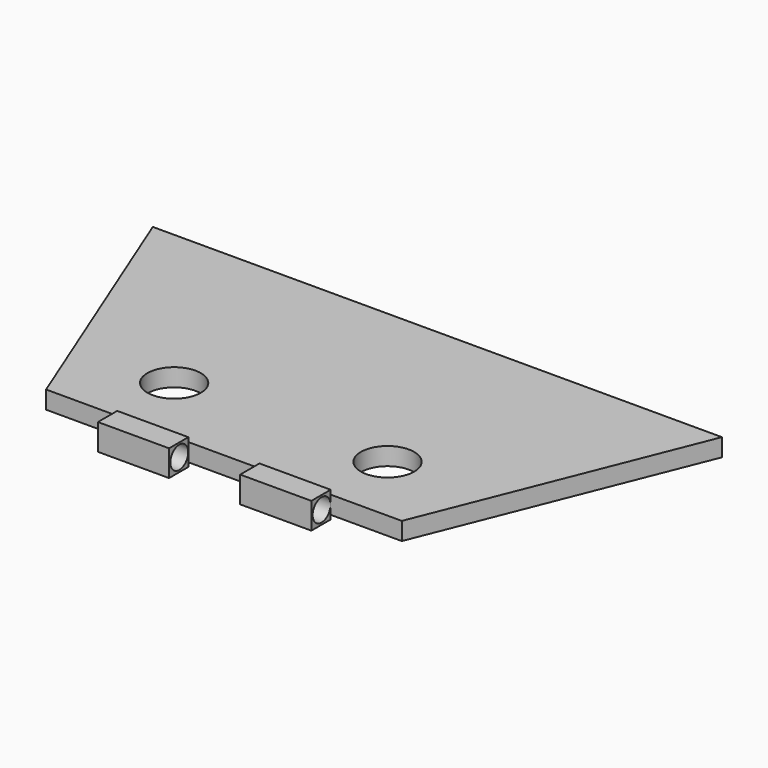
from build123d import *

# Parameters (mm, degrees)
F1_DEPTH = 6.35
F2_W     = 8.614382
F2_H     = 9.368035
F2_R     = 3.988724
F3_DEPTH = 76.2
F4_W     = 25.4
F4_H     = 8.614382
F5_DEPTH = 25.4
F8_D     = 19.05


with BuildPart() as f1:
    # F0 (on Top) → F1 (new body)
    with BuildSketch(Plane.XY):
        Polygon((139.7, 95.249673), (-63.5, 95.249673), (-25.4, 0), (101.6, 0), align=None)
    extrude(amount=F1_DEPTH)

    # F2 (on Right) → F3 (join)
    with BuildSketch(Plane.YZ):
        with Locations((-4.307191, 3.2055)):
            Rectangle(F2_W, F2_H)
        with Locations((-4.046882, 3.205501)):
            Circle(F2_R, mode=Mode.SUBTRACT)
        with Locations((-4.307191, 3.2055)):
            Rectangle(F2_W, F2_H)
        with Locations((-4.046882, 3.205501)):
            Circle(F2_R, mode=Mode.SUBTRACT)
    extrude(amount=F3_DEPTH)

    # F4 (on face) → F5 (cut)
    with BuildSketch(Plane.XY.offset(7.889518)):
        with Locations((38.1, -4.307191)):
            Rectangle(F4_W, F4_H)
    extrude(amount=-F5_DEPTH, mode=Mode.SUBTRACT)

    # F8 (through all)
    with Locations(Plane(origin=(0, 0, 0), x_dir=(1, 0, 0), z_dir=(0, 0, -1))):
        with Locations((0, -25.4), (76.2, -25.4)):
            Hole(F8_D / 2)


solid = f1.part
